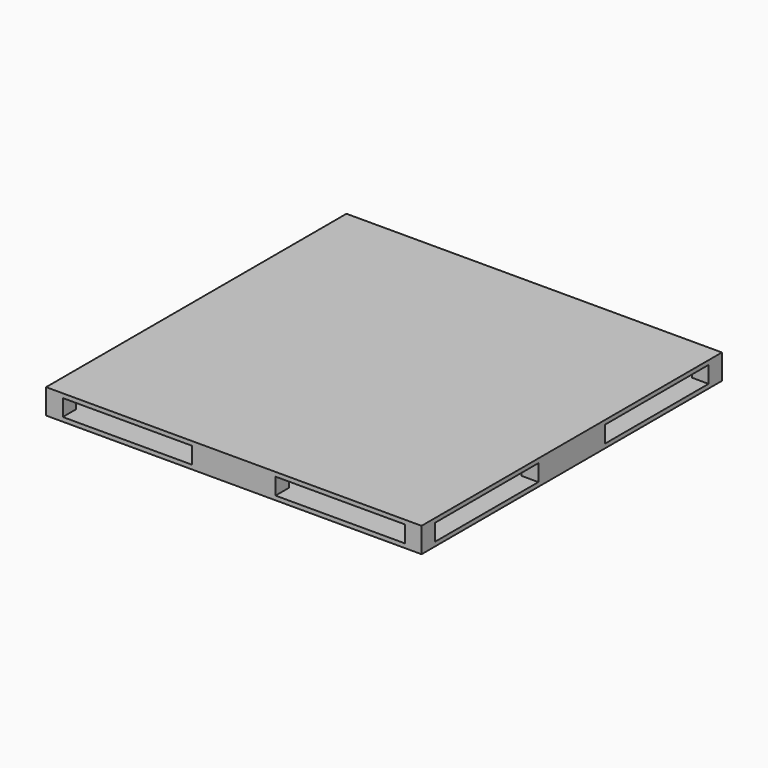
from build123d import *

# Parameters (mm, degrees)
F0_W     = 571.5
F0_H     = 571.5
F1_DEPTH = 38.1
F2_W     = 196.85
F2_H     = 25.4
F3_DEPTH = 571.501
F4_W     = 520.7
F4_H     = 25.4
F5_DEPTH = 571.501
F6_W     = 25.4
F6_H     = 127
F7_DEPTH = 38.1


with BuildPart() as f1:
    # F0 (on Top) → F1 (new body)
    with BuildSketch(Plane.XY):
        Rectangle(F0_W, F0_H)
    extrude(amount=F1_DEPTH)

    # F2 (on face) → F3 (cut, through all)
    with BuildSketch(Plane.XZ.offset(285.75)):
        with Locations((-161.925, 19.05)):
            Rectangle(F2_W, F2_H)
        with Locations((161.925, 19.05)):
            Rectangle(F2_W, F2_H)
    extrude(amount=-F3_DEPTH, mode=Mode.SUBTRACT)

    # F4 (on face) → F5 (cut, through all)
    with BuildSketch(Plane(origin=(-285.75, 0, 0), x_dir=(0, -1, 0), z_dir=(-1, 0, 0))):
        with Locations((0, 19.05)):
            Rectangle(F4_W, F4_H)
    extrude(amount=-F5_DEPTH, mode=Mode.SUBTRACT)

    # F6 (on face) → F7 (join)
    with BuildSketch(Plane.XY.offset(38.1)):
        with Locations((-273.05, 0)):
            Rectangle(F6_W, F6_H)
        with Locations((273.05, 0)):
            Rectangle(F6_W, F6_H)
    extrude(amount=-F7_DEPTH)


solid = f1.part
